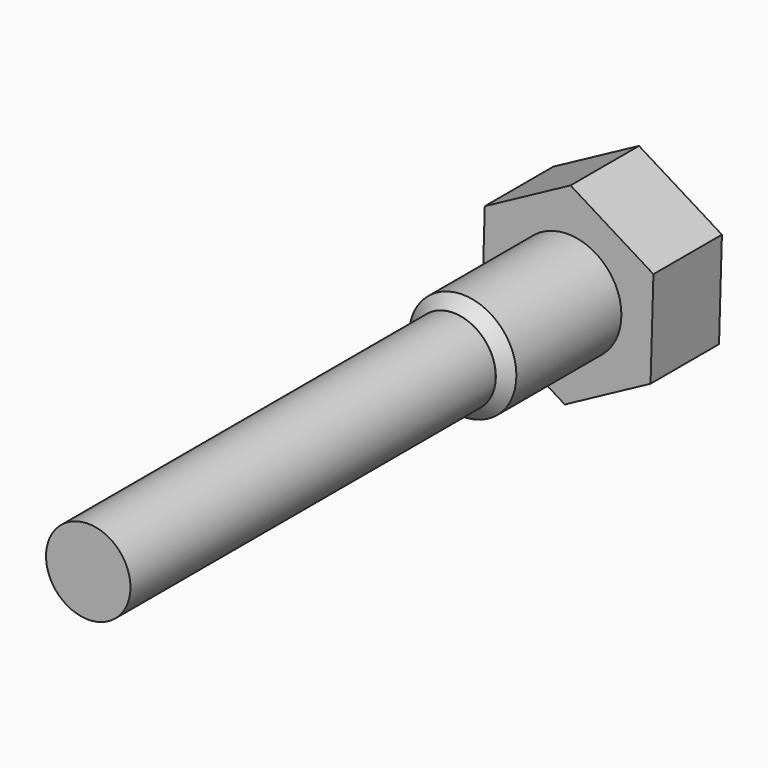
from build123d import *

# Parameters (mm, degrees)
F1_DEPTH = 38.1
F2_R     = 23.922901
F3_DEPTH = 63.5
F4_SIZE  = 5.08
F5_R     = 18.798033
F6_DEPTH = 203.2


with BuildPart() as f1:
    # F0 (on Front) → F1 (new body)
    with BuildSketch(Plane.XZ):
        Polygon((1.283812, 43.336898), (-36.888948, 22.780262), (-38.17276, -20.556635), (-1.283812, -43.336898), (36.888948, -22.780262), (38.17276, 20.556635), align=None)
    extrude(amount=F1_DEPTH)

    # F2 (on face) → F3 (join)
    with BuildSketch(Plane.XZ.offset(38.1)):
        Circle(F2_R)
    extrude(amount=F3_DEPTH)

    # F4
    f4_edges = [f1.edges().sort_by_distance(p)[0] for p in [
        (-23.922901, -101.6, 0),
    ]]
    chamfer(f4_edges, length=F4_SIZE)

    # F5 (on face) → F6 (join)
    with BuildSketch(Plane.XZ.offset(101.6)):
        Circle(F5_R)
    extrude(amount=F6_DEPTH)


solid = f1.part
